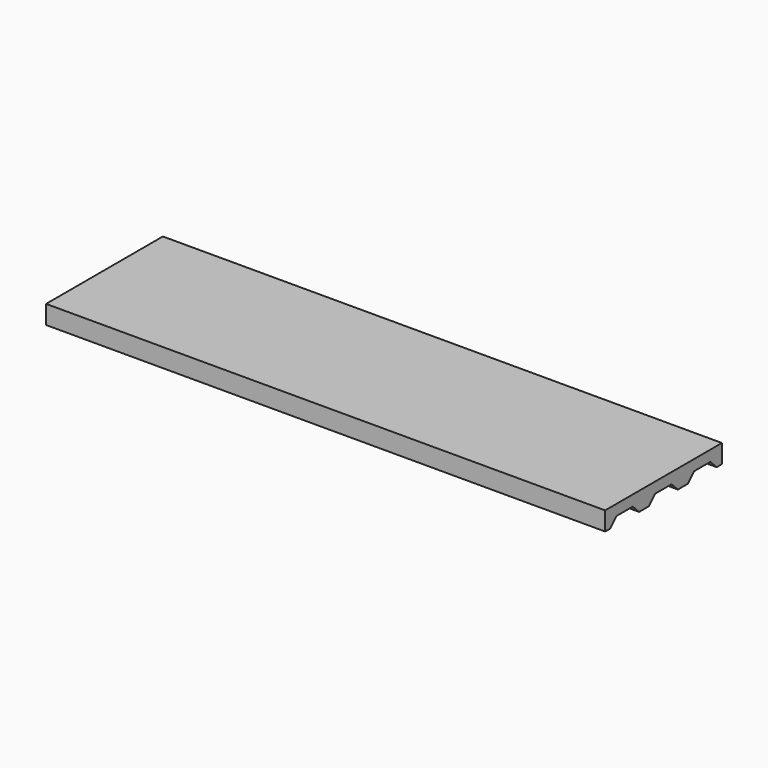
from build123d import *

# Parameters (mm, degrees)
F1_DEPTH = 3600


with BuildPart() as f1:
    # F0 (on Right) → F1 (new body)
    with BuildSketch(Plane.YZ):
        Polygon((-213.344054, 69.2), (-213.344054, -50.8), (-172.764793, -50.8), (-121.964793, 0), (9.424526, 0), (60.224526, -50.8), (98.655946, -50.8), (100.803787, -50.8), (139.235207, -50.8), (190.035207, 0), (321.424526, 0), (372.224526, -50.8), (410.655946, -50.8), (412.803787, -50.8), (451.235207, -50.8), (502.035207, 0), (633.424526, 0), (684.224526, -50.8), (724.803787, -50.8), (726.655946, -50.8), (726.655946, 69.2), align=None)
    extrude(amount=F1_DEPTH)


solid = f1.part
